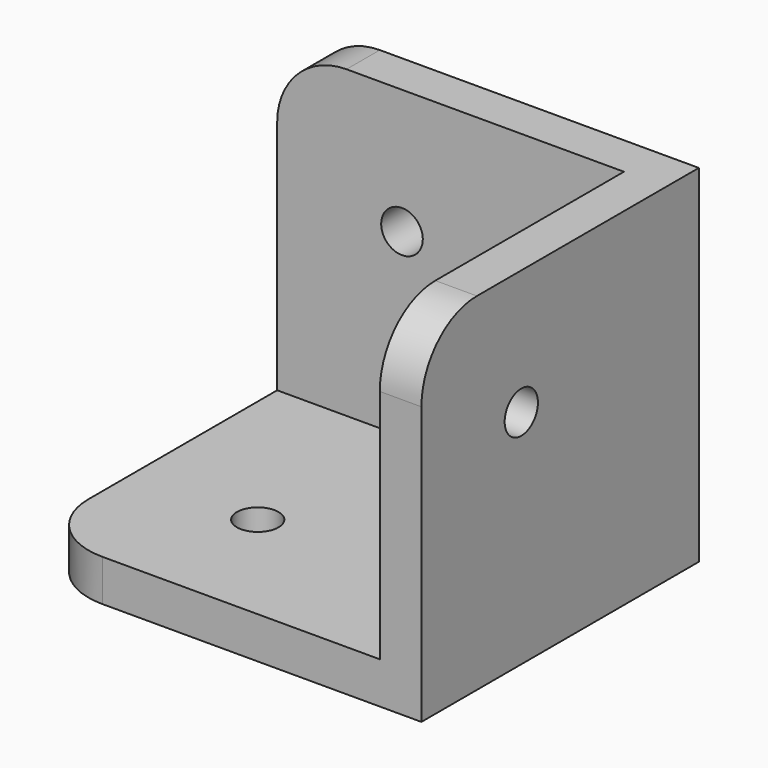
from build123d import *

# Parameters (mm, degrees)
F0_W     = 25
F0_H     = 25
F0_R     = 1.5
F3_DEPTH = 3
F4_R     = 5
F1_W     = 25
F1_H     = 25
F1_R     = 1.5
F5_DEPTH = 3
F6_R     = 5
F2_W     = 25
F2_H     = 25
F2_R     = 1.5
F7_DEPTH = 3
F8_R     = 5


with BuildPart() as f3:
    # F0 (on Top) → F3 (new body)
    with BuildSketch(Plane.XY):
        with Locations((-12.5, -12.5)):
            Rectangle(F0_W, F0_H)
        with Locations((-16, -16)):
            Circle(F0_R, mode=Mode.SUBTRACT)
    extrude(amount=F3_DEPTH)

    # F4
    f4_edges = [f3.edges().sort_by_distance(p)[0] for p in [
        (-25, -25, 1.5),
    ]]
    fillet(f4_edges, radius=F4_R)

    # F1 (on Right) → F5 (join)
    with BuildSketch(Plane.YZ):
        with Locations((-12.5, 12.5)):
            Rectangle(F1_W, F1_H)
        with Locations((-16, 16)):
            Circle(F1_R, mode=Mode.SUBTRACT)
    extrude(amount=F5_DEPTH)

    # F6
    f6_edges = [f3.edges().sort_by_distance(p)[0] for p in [
        (1.5, -25, 25),
    ]]
    fillet(f6_edges, radius=F6_R)

    # F2 (on Front) → F7 (join)
    with BuildSketch(Plane.XZ):
        with Locations((-12.5, 12.5)):
            Rectangle(F2_W, F2_H)
        with Locations((-16, 16)):
            Circle(F2_R, mode=Mode.SUBTRACT)
    extrude(amount=F7_DEPTH)

    # F8
    f8_edges = [f3.edges().sort_by_distance(p)[0] for p in [
        (-25, -1.5, 25),
    ]]
    fillet(f8_edges, radius=F8_R)


solid = f3.part
